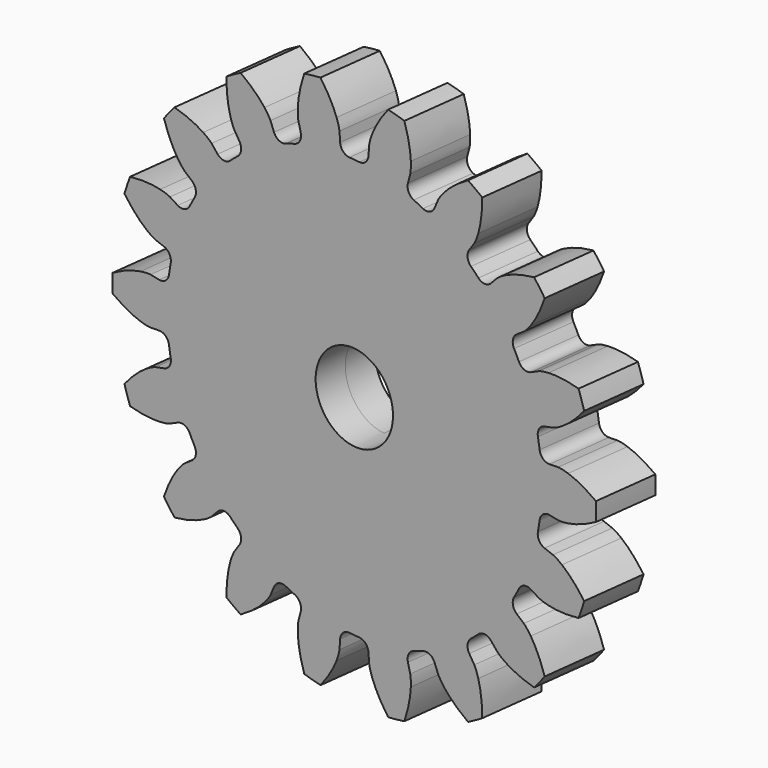
from build123d import *

# Parameters (mm, degrees)
EXTRUDE007_DEPTH       = 3
CYLINDER019_R          = 4
CYLINDER019_DEPTH      = 6
EXTRUDE008_DEPTH       = 6
CUT009_PLACEMENT_ANGLE = 7


with BuildPart() as extrude007:
    # Sketch004 (on Face3 of Cylinder019) → Extrude007 (new body)
    with BuildSketch(Plane(origin=(26, 4, 56), x_dir=(1, 0, 0), z_dir=(0, 1, 0))):
        with BuildLine():
            Line((0, 4), (16, 2))
            ThreePointArc((16, -2), (18, 0), (16, 2))
            Line((16, -2), (0, -4))
            ThreePointArc((0, 4), (-4, 0), (0, -4))
        make_face()
    extrude(amount=-EXTRUDE007_DEPTH)


with BuildPart() as fusion008:
    # Cylinder019 → Cylinder019 (new body)
    with BuildSketch(Plane(origin=(26, 4, 56), x_dir=(1, 0, 0), z_dir=(0, -1, 0))):
        Circle(CYLINDER019_R)
    extrude(amount=CYLINDER019_DEPTH)

    # Fusion008: union Extrude007
    add(extrude007.part)


with BuildPart() as tilt_gear:
    # InvoluteGear005 → Extrude008 (new body)
    with BuildSketch(Plane(origin=(26, 4, 56), x_dir=(1, 0, 0), z_dir=(0, -1, 0))):
        with BuildLine():
            Line((20.185039, -2.069529), (21.076268, -2.159004))
            add(Edge.make_bspline(
                [(21.076268, -2.159004), (21.190503, -2.163388), (21.534197, -2.162117), (22.10823, -2.036373)],
                knots=[0, 0, 0, 0, 1, 1, 1, 1], degree=3))
            add(Edge.make_bspline(
                [(22.10823, -2.036373), (22.794346, -1.883531), (23.779917, -1.554259), (24.988353, -0.850813)],
                knots=[0, 0, 0, 0, 1, 1, 1, 1], degree=3))
            ThreePointArc((24.988353, -0.850813), (25.002835, 0), (24.988353, 0.850813))
            add(Edge.make_bspline(
                [(24.988353, 0.850813), (23.779917, 1.554259), (22.794346, 1.883531), (22.10823, 2.036373)],
                knots=[0, 0, 0, 0, 1, 1, 1, 1], degree=3))
            add(Edge.make_bspline(
                [(22.10823, 2.036373), (21.534197, 2.162117), (21.190503, 2.163388), (21.076268, 2.159004)],
                knots=[0, 0, 0, 0, 1, 1, 1, 1], degree=3))
            Line((21.076268, 2.159004), (20.185039, 2.069529))
            ThreePointArc((20.185039, 2.069529), (19.514894, 2.261312), (19.162357, 2.862638))
            ThreePointArc((19.162357, 2.862638), (19.08065, 3.364433), (18.985805, 3.863912))
            ThreePointArc((18.985805, 3.863912), (19.111416, 4.549549), (19.675553, 4.958969))
            Line((19.675553, 4.958969), (20.543636, 5.179708))
            add(Edge.make_bspline(
                [(20.543636, 5.179708), (20.652482, 5.214659), (20.975014, 5.333404), (21.471421, 5.647895)],
                knots=[0, 0, 0, 0, 1, 1, 1, 1], degree=3))
            add(Edge.make_bspline(
                [(21.471421, 5.647895), (22.063884, 6.026185), (22.877401, 6.672685), (23.772367, 7.747017)],
                knots=[0, 0, 0, 0, 1, 1, 1, 1], degree=3))
            ThreePointArc((23.772367, 7.747017), (23.49498, 8.551473), (23.190376, 9.346023))
            add(Edge.make_bspline(
                [(23.190376, 9.346023), (21.814225, 9.593736), (20.775473, 9.566066), (20.078459, 9.475025)],
                knots=[0, 0, 0, 0, 1, 1, 1, 1], degree=3))
            add(Edge.make_bspline(
                [(20.078459, 9.475025), (19.496039, 9.396854), (19.172637, 9.280499), (19.06679, 9.237308)],
                knots=[0, 0, 0, 0, 1, 1, 1, 1], degree=3))
            Line((19.06679, 9.237308), (18.259912, 8.848411))
            ThreePointArc((18.259912, 8.848411), (17.564588, 8.799425), (17.027646, 9.243912))
            ThreePointArc((17.027646, 9.243912), (16.779242, 9.6875), (16.519285, 10.124418))
            ThreePointArc((16.519285, 10.124418), (16.402819, 10.811667), (16.792904, 11.389342))
            Line((16.792904, 11.389342), (17.533139, 11.893671))
            add(Edge.make_bspline(
                [(17.533139, 11.893671), (17.623466, 11.963742), (17.885934, 12.185638), (18.244842, 12.650944)],
                knots=[0, 0, 0, 0, 1, 1, 1, 1], degree=3))
            add(Edge.make_bspline(
                [(18.244842, 12.650944), (18.672193, 13.209054), (19.215532, 14.094805), (19.689082, 15.410443)],
                knots=[0, 0, 0, 0, 1, 1, 1, 1], degree=3))
            ThreePointArc((19.689082, 15.410443), (19.153283, 16.071513), (18.595297, 16.713965))
            add(Edge.make_bspline(
                [(18.595297, 16.713965), (17.217415, 16.476068), (16.250771, 16.094792), (15.626931, 15.770848)],
                knots=[0, 0, 0, 0, 1, 1, 1, 1], degree=3))
            add(Edge.make_bspline(
                [(15.626931, 15.770848), (15.10637, 15.498193), (14.842268, 15.278244), (14.757577, 15.201457)],
                knots=[0, 0, 0, 0, 1, 1, 1, 1], degree=3))
            Line((14.757577, 15.201457), (14.13237, 14.560044))
            ThreePointArc((14.13237, 14.560044), (13.495733, 14.276197), (12.839149, 14.510234))
            ThreePointArc((12.839149, 14.510234), (12.45401, 14.842111), (12.060296, 15.163769))
            ThreePointArc((12.060296, 15.163769), (11.7158, 15.769738), (11.884784, 16.445992))
            Line((11.884784, 16.445992), (12.407886, 17.173081))
            add(Edge.make_bspline(
                [(12.407886, 17.173081), (12.468801, 17.26982), (12.639547, 17.568104), (12.817666, 18.128102)],
                knots=[0, 0, 0, 0, 1, 1, 1, 1], degree=3))
            add(Edge.make_bspline(
                [(12.817666, 18.128102), (13.028359, 18.798717), (13.235986, 19.816883), (13.231003, 21.215142)],
                knots=[0, 0, 0, 0, 1, 1, 1, 1], degree=3))
            ThreePointArc((13.231003, 21.215142), (12.501418, 21.65309), (11.757351, 22.065956))
            add(Edge.make_bspline(
                [(11.757351, 22.065956), (10.543931, 21.371142), (9.765987, 20.682248), (9.290564, 20.164475)],
                knots=[0, 0, 0, 0, 1, 1, 1, 1], degree=3))
            add(Edge.make_bspline(
                [(9.290564, 20.164475), (8.894651, 19.73022), (8.721703, 19.433208), (8.668381, 19.332085)],
                knots=[0, 0, 0, 0, 1, 1, 1, 1], degree=3))
            Line((8.668381, 19.332085), (8.300255, 18.515521))
            ThreePointArc((8.300255, 18.515521), (7.799093, 18.03105), (7.102061, 18.026407))
            ThreePointArc((7.102061, 18.026407), (6.62664, 18.206545), (6.146656, 18.374146))
            ThreePointArc((6.146656, 18.374146), (5.615683, 18.825746), (5.543183, 19.519013))
            Line((5.543183, 19.519013), (5.78606, 20.381165))
            add(Edge.make_bspline(
                [(5.78606, 20.381165), (5.810213, 20.492904), (5.868643, 20.831597), (5.84449, 21.418743)],
                knots=[0, 0, 0, 0, 1, 1, 1, 1], degree=3))
            add(Edge.make_bspline(
                [(5.84449, 21.418743), (5.813113, 22.120977), (5.659985, 23.148753), (5.17707, 24.460982)],
                knots=[0, 0, 0, 0, 1, 1, 1, 1], degree=3))
            ThreePointArc((5.17707, 24.460982), (4.341697, 24.622986), (3.501294, 24.756466))
            add(Edge.make_bspline(
                [(3.501294, 24.756466), (2.598693, 23.688541), (2.10328, 22.77512), (1.833618, 22.125968)],
                knots=[0, 0, 0, 0, 1, 1, 1, 1], degree=3))
            add(Edge.make_bspline(
                [(1.833618, 22.125968), (1.610105, 21.582492), (1.549171, 21.24424), (1.533651, 21.130979)],
                knots=[0, 0, 0, 0, 1, 1, 1, 1], degree=3))
            Line((1.533651, 21.130979), (1.467007, 20.237753))
            ThreePointArc((1.467007, 20.237753), (1.161768, 19.611091), (0.50836, 19.36833))
            ThreePointArc((0.50836, 19.36833), (0, 19.375), (-0.50836, 19.36833))
            ThreePointArc((-0.50836, 19.36833), (-1.161768, 19.611091), (-1.467007, 20.237753))
            Line((-1.467007, 20.237753), (-1.533651, 21.130979))
            add(Edge.make_bspline(
                [(-1.533651, 21.130979), (-1.549171, 21.24424), (-1.610105, 21.582492), (-1.833618, 22.125968)],
                knots=[0, 0, 0, 0, 1, 1, 1, 1], degree=3))
            add(Edge.make_bspline(
                [(-1.833618, 22.125968), (-2.10328, 22.77512), (-2.598693, 23.688541), (-3.501294, 24.756466)],
                knots=[0, 0, 0, 0, 1, 1, 1, 1], degree=3))
            ThreePointArc((-3.501294, 24.756466), (-4.341697, 24.622986), (-5.17707, 24.460982))
            add(Edge.make_bspline(
                [(-5.17707, 24.460982), (-5.659985, 23.148753), (-5.813113, 22.120977), (-5.84449, 21.418743)],
                knots=[0, 0, 0, 0, 1, 1, 1, 1], degree=3))
            add(Edge.make_bspline(
                [(-5.84449, 21.418743), (-5.868643, 20.831597), (-5.810213, 20.492904), (-5.78606, 20.381165)],
                knots=[0, 0, 0, 0, 1, 1, 1, 1], degree=3))
            Line((-5.78606, 20.381165), (-5.543183, 19.519013))
            ThreePointArc((-5.543183, 19.519013), (-5.615683, 18.825746), (-6.146656, 18.374146))
            ThreePointArc((-6.146656, 18.374146), (-6.62664, 18.206545), (-7.102061, 18.026407))
            ThreePointArc((-7.102061, 18.026407), (-7.799093, 18.03105), (-8.300255, 18.515521))
            Line((-8.300255, 18.515521), (-8.668381, 19.332085))
            add(Edge.make_bspline(
                [(-8.668381, 19.332085), (-8.721703, 19.433208), (-8.894651, 19.73022), (-9.290564, 20.164475)],
                knots=[0, 0, 0, 0, 1, 1, 1, 1], degree=3))
            add(Edge.make_bspline(
                [(-9.290564, 20.164475), (-9.765987, 20.682248), (-10.543931, 21.371142), (-11.757351, 22.065956)],
                knots=[0, 0, 0, 0, 1, 1, 1, 1], degree=3))
            ThreePointArc((-11.757351, 22.065956), (-12.501418, 21.65309), (-13.231003, 21.215142))
            add(Edge.make_bspline(
                [(-13.231003, 21.215142), (-13.235986, 19.816883), (-13.028359, 18.798717), (-12.817666, 18.128102)],
                knots=[0, 0, 0, 0, 1, 1, 1, 1], degree=3))
            add(Edge.make_bspline(
                [(-12.817666, 18.128102), (-12.639547, 17.568104), (-12.468801, 17.26982), (-12.407886, 17.173081)],
                knots=[0, 0, 0, 0, 1, 1, 1, 1], degree=3))
            Line((-12.407886, 17.173081), (-11.884784, 16.445992))
            ThreePointArc((-11.884784, 16.445992), (-11.7158, 15.769738), (-12.060296, 15.163769))
            ThreePointArc((-12.060296, 15.163769), (-12.45401, 14.842111), (-12.839149, 14.510234))
            ThreePointArc((-12.839149, 14.510234), (-13.495733, 14.276197), (-14.13237, 14.560044))
            Line((-14.13237, 14.560044), (-14.757577, 15.201457))
            add(Edge.make_bspline(
                [(-14.757577, 15.201457), (-14.842268, 15.278244), (-15.10637, 15.498193), (-15.626931, 15.770848)],
                knots=[0, 0, 0, 0, 1, 1, 1, 1], degree=3))
            add(Edge.make_bspline(
                [(-15.626931, 15.770848), (-16.250771, 16.094792), (-17.217415, 16.476068), (-18.595297, 16.713965)],
                knots=[0, 0, 0, 0, 1, 1, 1, 1], degree=3))
            ThreePointArc((-18.595297, 16.713965), (-19.153283, 16.071513), (-19.689082, 15.410443))
            add(Edge.make_bspline(
                [(-19.689082, 15.410443), (-19.215532, 14.094805), (-18.672193, 13.209054), (-18.244842, 12.650944)],
                knots=[0, 0, 0, 0, 1, 1, 1, 1], degree=3))
            add(Edge.make_bspline(
                [(-18.244842, 12.650944), (-17.885934, 12.185638), (-17.623466, 11.963742), (-17.533139, 11.893671)],
                knots=[0, 0, 0, 0, 1, 1, 1, 1], degree=3))
            Line((-17.533139, 11.893671), (-16.792904, 11.389342))
            ThreePointArc((-16.792904, 11.389342), (-16.402819, 10.811667), (-16.519285, 10.124418))
            ThreePointArc((-16.519285, 10.124418), (-16.779242, 9.6875), (-17.027646, 9.243912))
            ThreePointArc((-17.027646, 9.243912), (-17.564588, 8.799425), (-18.259912, 8.848411))
            Line((-18.259912, 8.848411), (-19.06679, 9.237308))
            add(Edge.make_bspline(
                [(-19.06679, 9.237308), (-19.172637, 9.280499), (-19.496039, 9.396854), (-20.078459, 9.475025)],
                knots=[0, 0, 0, 0, 1, 1, 1, 1], degree=3))
            add(Edge.make_bspline(
                [(-20.078459, 9.475025), (-20.775473, 9.566066), (-21.814225, 9.593736), (-23.190376, 9.346023)],
                knots=[0, 0, 0, 0, 1, 1, 1, 1], degree=3))
            ThreePointArc((-23.190376, 9.346023), (-23.49498, 8.551473), (-23.772367, 7.747017))
            add(Edge.make_bspline(
                [(-23.772367, 7.747017), (-22.877401, 6.672685), (-22.063884, 6.026185), (-21.471421, 5.647895)],
                knots=[0, 0, 0, 0, 1, 1, 1, 1], degree=3))
            add(Edge.make_bspline(
                [(-21.471421, 5.647895), (-20.975014, 5.333404), (-20.652482, 5.214659), (-20.543636, 5.179708)],
                knots=[0, 0, 0, 0, 1, 1, 1, 1], degree=3))
            Line((-20.543636, 5.179708), (-19.675553, 4.958969))
            ThreePointArc((-19.675553, 4.958969), (-19.111416, 4.549549), (-18.985805, 3.863912))
            ThreePointArc((-18.985805, 3.863912), (-19.08065, 3.364433), (-19.162357, 2.862638))
            ThreePointArc((-19.162357, 2.862638), (-19.514894, 2.261312), (-20.185039, 2.069529))
            Line((-20.185039, 2.069529), (-21.076268, 2.159004))
            add(Edge.make_bspline(
                [(-21.076268, 2.159004), (-21.190503, 2.163388), (-21.534197, 2.162117), (-22.10823, 2.036373)],
                knots=[0, 0, 0, 0, 1, 1, 1, 1], degree=3))
            add(Edge.make_bspline(
                [(-22.10823, 2.036373), (-22.794346, 1.883531), (-23.779917, 1.554259), (-24.988353, 0.850813)],
                knots=[0, 0, 0, 0, 1, 1, 1, 1], degree=3))
            ThreePointArc((-24.988353, 0.850813), (-25.002835, 0), (-24.988353, -0.850813))
            add(Edge.make_bspline(
                [(-24.988353, -0.850813), (-23.779917, -1.554259), (-22.794346, -1.883531), (-22.10823, -2.036373)],
                knots=[0, 0, 0, 0, 1, 1, 1, 1], degree=3))
            add(Edge.make_bspline(
                [(-22.10823, -2.036373), (-21.534197, -2.162117), (-21.190503, -2.163388), (-21.076268, -2.159004)],
                knots=[0, 0, 0, 0, 1, 1, 1, 1], degree=3))
            Line((-21.076268, -2.159004), (-20.185039, -2.069529))
            ThreePointArc((-20.185039, -2.069529), (-19.514894, -2.261312), (-19.162357, -2.862638))
            ThreePointArc((-19.162357, -2.862638), (-19.08065, -3.364433), (-18.985805, -3.863912))
            ThreePointArc((-18.985805, -3.863912), (-19.111416, -4.549549), (-19.675553, -4.958969))
            Line((-19.675553, -4.958969), (-20.543636, -5.179708))
            add(Edge.make_bspline(
                [(-20.543636, -5.179708), (-20.652482, -5.214659), (-20.975014, -5.333404), (-21.471421, -5.647895)],
                knots=[0, 0, 0, 0, 1, 1, 1, 1], degree=3))
            add(Edge.make_bspline(
                [(-21.471421, -5.647895), (-22.063884, -6.026185), (-22.877401, -6.672685), (-23.772367, -7.747017)],
                knots=[0, 0, 0, 0, 1, 1, 1, 1], degree=3))
            ThreePointArc((-23.772367, -7.747017), (-23.49498, -8.551473), (-23.190376, -9.346023))
            add(Edge.make_bspline(
                [(-23.190376, -9.346023), (-21.814225, -9.593736), (-20.775473, -9.566066), (-20.078459, -9.475025)],
                knots=[0, 0, 0, 0, 1, 1, 1, 1], degree=3))
            add(Edge.make_bspline(
                [(-20.078459, -9.475025), (-19.496039, -9.396854), (-19.172637, -9.280499), (-19.06679, -9.237308)],
                knots=[0, 0, 0, 0, 1, 1, 1, 1], degree=3))
            Line((-19.06679, -9.237308), (-18.259912, -8.848411))
            ThreePointArc((-18.259912, -8.848411), (-17.564588, -8.799425), (-17.027646, -9.243912))
            ThreePointArc((-17.027646, -9.243912), (-16.779242, -9.6875), (-16.519285, -10.124418))
            ThreePointArc((-16.519285, -10.124418), (-16.402819, -10.811667), (-16.792904, -11.389342))
            Line((-16.792904, -11.389342), (-17.533139, -11.893671))
            add(Edge.make_bspline(
                [(-17.533139, -11.893671), (-17.623466, -11.963742), (-17.885934, -12.185638), (-18.244842, -12.650944)],
                knots=[0, 0, 0, 0, 1, 1, 1, 1], degree=3))
            add(Edge.make_bspline(
                [(-18.244842, -12.650944), (-18.672193, -13.209054), (-19.215532, -14.094805), (-19.689082, -15.410443)],
                knots=[0, 0, 0, 0, 1, 1, 1, 1], degree=3))
            ThreePointArc((-19.689082, -15.410443), (-19.153283, -16.071513), (-18.595297, -16.713965))
            add(Edge.make_bspline(
                [(-18.595297, -16.713965), (-17.217415, -16.476068), (-16.250771, -16.094792), (-15.626931, -15.770848)],
                knots=[0, 0, 0, 0, 1, 1, 1, 1], degree=3))
            add(Edge.make_bspline(
                [(-15.626931, -15.770848), (-15.10637, -15.498193), (-14.842268, -15.278244), (-14.757577, -15.201457)],
                knots=[0, 0, 0, 0, 1, 1, 1, 1], degree=3))
            Line((-14.757577, -15.201457), (-14.13237, -14.560044))
            ThreePointArc((-14.13237, -14.560044), (-13.495733, -14.276197), (-12.839149, -14.510234))
            ThreePointArc((-12.839149, -14.510234), (-12.45401, -14.842111), (-12.060296, -15.163769))
            ThreePointArc((-12.060296, -15.163769), (-11.7158, -15.769738), (-11.884784, -16.445992))
            Line((-11.884784, -16.445992), (-12.407886, -17.173081))
            add(Edge.make_bspline(
                [(-12.407886, -17.173081), (-12.468801, -17.26982), (-12.639547, -17.568104), (-12.817666, -18.128102)],
                knots=[0, 0, 0, 0, 1, 1, 1, 1], degree=3))
            add(Edge.make_bspline(
                [(-12.817666, -18.128102), (-13.028359, -18.798717), (-13.235986, -19.816883), (-13.231003, -21.215142)],
                knots=[0, 0, 0, 0, 1, 1, 1, 1], degree=3))
            ThreePointArc((-13.231003, -21.215142), (-12.501418, -21.65309), (-11.757351, -22.065956))
            add(Edge.make_bspline(
                [(-11.757351, -22.065956), (-10.543931, -21.371142), (-9.765987, -20.682248), (-9.290564, -20.164475)],
                knots=[0, 0, 0, 0, 1, 1, 1, 1], degree=3))
            add(Edge.make_bspline(
                [(-9.290564, -20.164475), (-8.894651, -19.73022), (-8.721703, -19.433208), (-8.668381, -19.332085)],
                knots=[0, 0, 0, 0, 1, 1, 1, 1], degree=3))
            Line((-8.668381, -19.332085), (-8.300255, -18.515521))
            ThreePointArc((-8.300255, -18.515521), (-7.799093, -18.03105), (-7.102061, -18.026407))
            ThreePointArc((-7.102061, -18.026407), (-6.62664, -18.206545), (-6.146656, -18.374146))
            ThreePointArc((-6.146656, -18.374146), (-5.615683, -18.825746), (-5.543183, -19.519013))
            Line((-5.543183, -19.519013), (-5.78606, -20.381165))
            add(Edge.make_bspline(
                [(-5.78606, -20.381165), (-5.810213, -20.492904), (-5.868643, -20.831597), (-5.84449, -21.418743)],
                knots=[0, 0, 0, 0, 1, 1, 1, 1], degree=3))
            add(Edge.make_bspline(
                [(-5.84449, -21.418743), (-5.813113, -22.120977), (-5.659985, -23.148753), (-5.17707, -24.460982)],
                knots=[0, 0, 0, 0, 1, 1, 1, 1], degree=3))
            ThreePointArc((-5.17707, -24.460982), (-4.341697, -24.622986), (-3.501294, -24.756466))
            add(Edge.make_bspline(
                [(-3.501294, -24.756466), (-2.598693, -23.688541), (-2.10328, -22.77512), (-1.833618, -22.125968)],
                knots=[0, 0, 0, 0, 1, 1, 1, 1], degree=3))
            add(Edge.make_bspline(
                [(-1.833618, -22.125968), (-1.610105, -21.582492), (-1.549171, -21.24424), (-1.533651, -21.130979)],
                knots=[0, 0, 0, 0, 1, 1, 1, 1], degree=3))
            Line((-1.533651, -21.130979), (-1.467007, -20.237753))
            ThreePointArc((-1.467007, -20.237753), (-1.161768, -19.611091), (-0.50836, -19.36833))
            ThreePointArc((-0.50836, -19.36833), (0, -19.375), (0.50836, -19.36833))
            ThreePointArc((0.50836, -19.36833), (1.161768, -19.611091), (1.467007, -20.237753))
            Line((1.467007, -20.237753), (1.533651, -21.130979))
            add(Edge.make_bspline(
                [(1.533651, -21.130979), (1.549171, -21.24424), (1.610105, -21.582492), (1.833618, -22.125968)],
                knots=[0, 0, 0, 0, 1, 1, 1, 1], degree=3))
            add(Edge.make_bspline(
                [(1.833618, -22.125968), (2.10328, -22.77512), (2.598693, -23.688541), (3.501294, -24.756466)],
                knots=[0, 0, 0, 0, 1, 1, 1, 1], degree=3))
            ThreePointArc((3.501294, -24.756466), (4.341697, -24.622986), (5.17707, -24.460982))
            add(Edge.make_bspline(
                [(5.17707, -24.460982), (5.659985, -23.148753), (5.813113, -22.120977), (5.84449, -21.418743)],
                knots=[0, 0, 0, 0, 1, 1, 1, 1], degree=3))
            add(Edge.make_bspline(
                [(5.84449, -21.418743), (5.868643, -20.831597), (5.810213, -20.492904), (5.78606, -20.381165)],
                knots=[0, 0, 0, 0, 1, 1, 1, 1], degree=3))
            Line((5.78606, -20.381165), (5.543183, -19.519013))
            ThreePointArc((5.543183, -19.519013), (5.615683, -18.825746), (6.146656, -18.374146))
            ThreePointArc((6.146656, -18.374146), (6.62664, -18.206545), (7.102061, -18.026407))
            ThreePointArc((7.102061, -18.026407), (7.799093, -18.03105), (8.300255, -18.515521))
            Line((8.300255, -18.515521), (8.668381, -19.332085))
            add(Edge.make_bspline(
                [(8.668381, -19.332085), (8.721703, -19.433208), (8.894651, -19.73022), (9.290564, -20.164475)],
                knots=[0, 0, 0, 0, 1, 1, 1, 1], degree=3))
            add(Edge.make_bspline(
                [(9.290564, -20.164475), (9.765987, -20.682248), (10.543931, -21.371142), (11.757351, -22.065956)],
                knots=[0, 0, 0, 0, 1, 1, 1, 1], degree=3))
            ThreePointArc((11.757351, -22.065956), (12.501418, -21.65309), (13.231003, -21.215142))
            add(Edge.make_bspline(
                [(13.231003, -21.215142), (13.235986, -19.816883), (13.028359, -18.798717), (12.817666, -18.128102)],
                knots=[0, 0, 0, 0, 1, 1, 1, 1], degree=3))
            add(Edge.make_bspline(
                [(12.817666, -18.128102), (12.639547, -17.568104), (12.468801, -17.26982), (12.407886, -17.173081)],
                knots=[0, 0, 0, 0, 1, 1, 1, 1], degree=3))
            Line((12.407886, -17.173081), (11.884784, -16.445992))
            ThreePointArc((11.884784, -16.445992), (11.7158, -15.769738), (12.060296, -15.163769))
            ThreePointArc((12.060296, -15.163769), (12.45401, -14.842111), (12.839149, -14.510234))
            ThreePointArc((12.839149, -14.510234), (13.495733, -14.276197), (14.13237, -14.560044))
            Line((14.13237, -14.560044), (14.757577, -15.201457))
            add(Edge.make_bspline(
                [(14.757577, -15.201457), (14.842268, -15.278244), (15.10637, -15.498193), (15.626931, -15.770848)],
                knots=[0, 0, 0, 0, 1, 1, 1, 1], degree=3))
            add(Edge.make_bspline(
                [(15.626931, -15.770848), (16.250771, -16.094792), (17.217415, -16.476068), (18.595297, -16.713965)],
                knots=[0, 0, 0, 0, 1, 1, 1, 1], degree=3))
            ThreePointArc((18.595297, -16.713965), (19.153283, -16.071513), (19.689082, -15.410443))
            add(Edge.make_bspline(
                [(19.689082, -15.410443), (19.215532, -14.094805), (18.672193, -13.209054), (18.244842, -12.650944)],
                knots=[0, 0, 0, 0, 1, 1, 1, 1], degree=3))
            add(Edge.make_bspline(
                [(18.244842, -12.650944), (17.885934, -12.185638), (17.623466, -11.963742), (17.533139, -11.893671)],
                knots=[0, 0, 0, 0, 1, 1, 1, 1], degree=3))
            Line((17.533139, -11.893671), (16.792904, -11.389342))
            ThreePointArc((16.792904, -11.389342), (16.402819, -10.811667), (16.519285, -10.124418))
            ThreePointArc((16.519285, -10.124418), (16.779242, -9.6875), (17.027646, -9.243912))
            ThreePointArc((17.027646, -9.243912), (17.564588, -8.799425), (18.259912, -8.848411))
            Line((18.259912, -8.848411), (19.06679, -9.237308))
            add(Edge.make_bspline(
                [(19.06679, -9.237308), (19.172637, -9.280499), (19.496039, -9.396854), (20.078459, -9.475025)],
                knots=[0, 0, 0, 0, 1, 1, 1, 1], degree=3))
            add(Edge.make_bspline(
                [(20.078459, -9.475025), (20.775473, -9.566066), (21.814225, -9.593736), (23.190376, -9.346023)],
                knots=[0, 0, 0, 0, 1, 1, 1, 1], degree=3))
            ThreePointArc((23.190376, -9.346023), (23.49498, -8.551473), (23.772367, -7.747017))
            add(Edge.make_bspline(
                [(23.772367, -7.747017), (22.877401, -6.672685), (22.063884, -6.026185), (21.471421, -5.647895)],
                knots=[0, 0, 0, 0, 1, 1, 1, 1], degree=3))
            add(Edge.make_bspline(
                [(21.471421, -5.647895), (20.975014, -5.333404), (20.652482, -5.214659), (20.543636, -5.179708)],
                knots=[0, 0, 0, 0, 1, 1, 1, 1], degree=3))
            Line((20.543636, -5.179708), (19.675553, -4.958969))
            ThreePointArc((19.675553, -4.958969), (19.111416, -4.549549), (18.985805, -3.863912))
            ThreePointArc((18.985805, -3.863912), (19.08065, -3.364433), (19.162357, -2.862638))
            ThreePointArc((19.162357, -2.862638), (19.514894, -2.261312), (20.185039, -2.069529))
        make_face()
    extrude(amount=EXTRUDE008_DEPTH)

    # Cut009: cut Fusion008
    add(fusion008.part, mode=Mode.SUBTRACT)


with BuildPart() as tilt_gear_1:
    # Cut009 placement: moved
    add(tilt_gear.part.moved(Location((21.3, 1, 0))).rotate(Axis((21.3, 1, 0), (0, 0, -1)), CUT009_PLACEMENT_ANGLE))


solid = tilt_gear_1.part
